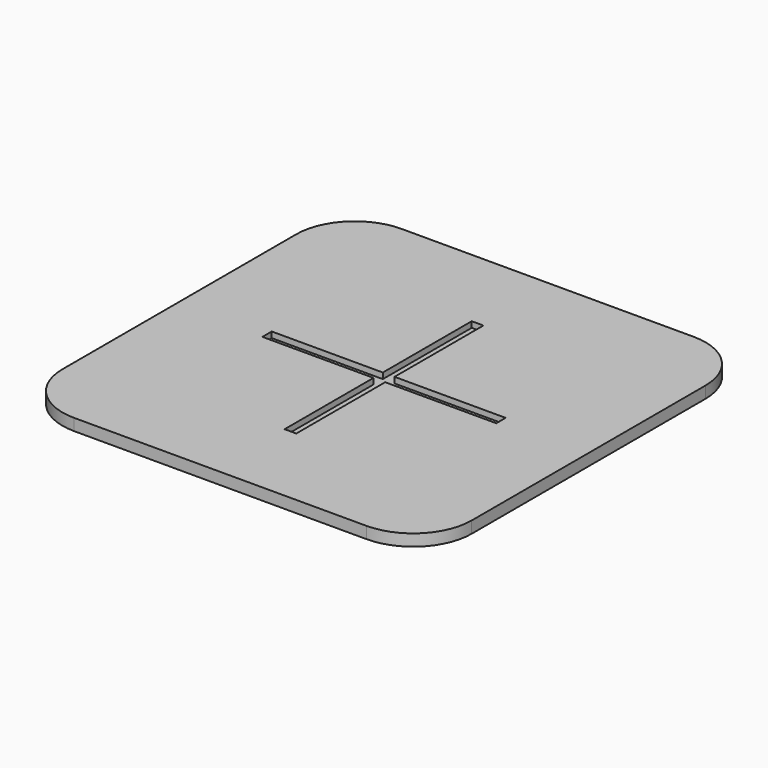
from build123d import *

# Parameters (mm, degrees)
F0_W           = 889
F0_H           = 889
F1_DEPTH       = 25.4
F6_DEPTH       = 12.7
F3_D           = 3.175
F3_DEPTH       = 63.5
F3_CBORE_D     = 12.7
F3_CBORE_DEPTH = 3.175
F4_R           = 127


with BuildPart() as f1:
    # F0 (on Top) → F1 (new body)
    with BuildSketch(Plane.XY):
        Rectangle(F0_W, F0_H)
    extrude(amount=F1_DEPTH)

    # F5 (on face) → F6 (cut)
    with BuildSketch(Plane.XY.offset(25.4)):
        Polygon((12.7, 12.7), (12.7, 254), (-12.7, 254), (-12.7, 12.7), (-254, 12.7), (-254, -12.7), (-12.7, -12.7), (-12.7, -254), (12.7, -254), (12.7, -12.7), (254, -12.7), (254, 12.7), align=None)
    extrude(amount=-F6_DEPTH, mode=Mode.SUBTRACT)

    # F3
    with Locations(Plane(origin=(0, 0, 0), x_dir=(1, 0, 0), z_dir=(0, 0, -1))):
        with Locations((-190.5, 0), (0, 190.5), (190.5, 0), (0, -190.5)):
            CounterBoreHole(F3_D / 2, F3_CBORE_D / 2, F3_CBORE_DEPTH, depth=F3_DEPTH)

    # F4
    f4_edges = [f1.edges().sort_by_distance(p)[0] for p in [
        (444.5, -444.5, 12.7),
        (444.5, 444.5, 12.7),
        (-444.5, 444.5, 12.7),
        (-444.5, -444.5, 12.7),
    ]]
    fillet(f4_edges, radius=F4_R)


solid = f1.part
